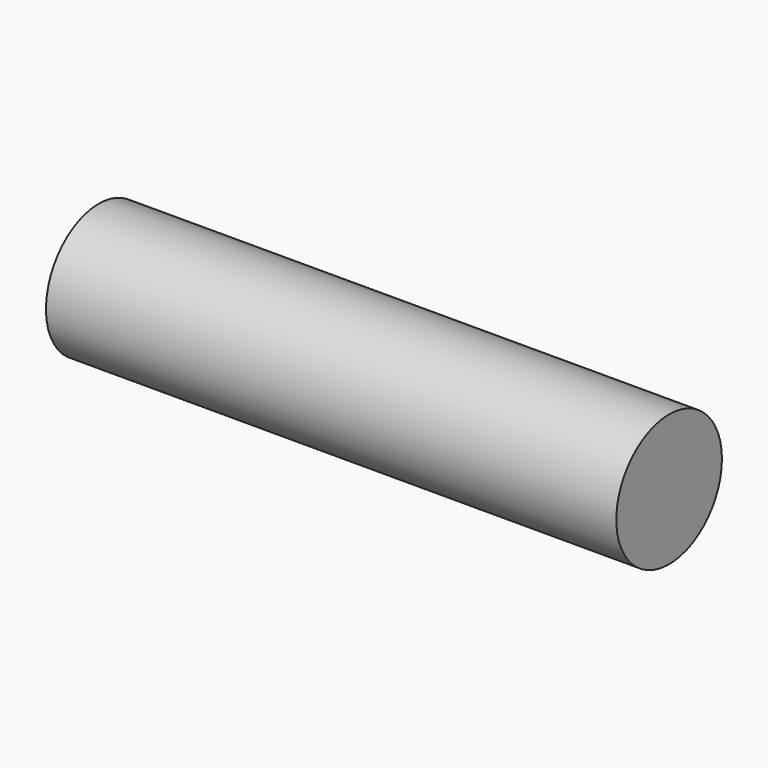
from build123d import *

# Parameters (mm, degrees)
SKETCH_R      = 5
PAD_DEPTH     = 22
SKETCH001_R   = 5
SKETCH001_R_2 = 1.9
POCKET_DEPTH  = 0.8


with BuildPart() as part:
    # Sketch → Pad (new body, symmetric)
    with BuildSketch(Plane.YZ):
        Circle(SKETCH_R)
    extrude(amount=PAD_DEPTH, both=True)

    # Sketch001 (on Face2 of Pad) → Pocket (cut)
    with BuildSketch(Plane(origin=(-22, 0, 0), x_dir=(0, 1, 0), z_dir=(-1, 0, 0))):
        Circle(SKETCH001_R)
        Circle(SKETCH001_R_2, mode=Mode.SUBTRACT)
    extrude(amount=-POCKET_DEPTH, mode=Mode.SUBTRACT)


solid = part.part
